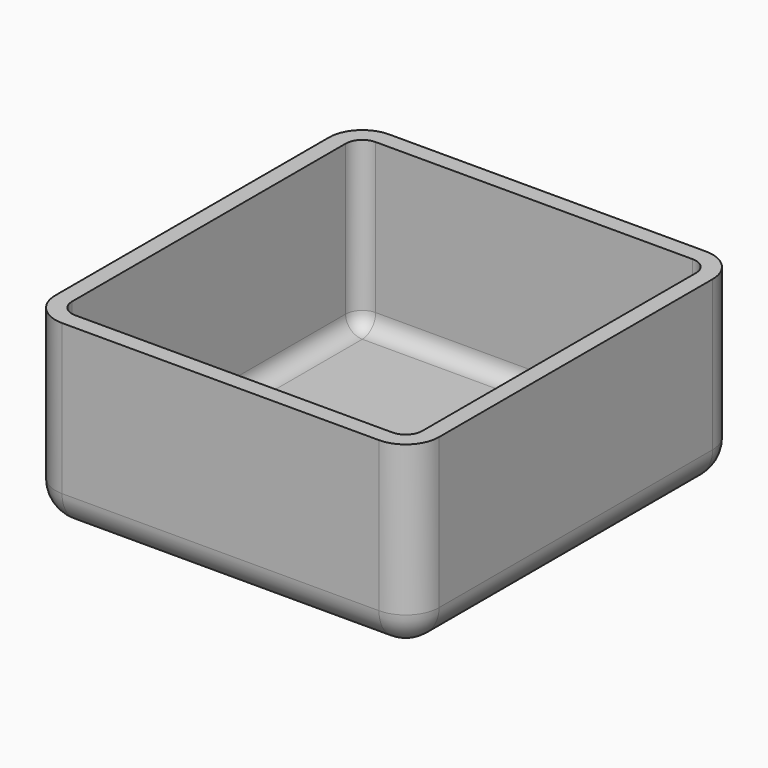
from build123d import *

# Parameters (mm, degrees)
F1_DEPTH = 2
F2_W     = 46
F2_H     = 49
F3_DEPTH = 22
F4_W     = 42
F4_H     = 45
F5_DEPTH = 20
F6_R     = 4
F7_R     = 2
F8_R     = 2
F9_R     = 4


with BuildPart() as f1:
    # F0 (on Top) → F1 (new body)
    with BuildSketch(Plane.XY):
        with BuildLine():
            Line((7, 10), (-7, 10))
            ThreePointArc((-7, 10), (-9.1213203436, 9.1213203436), (-10, 7))
            Line((-10, 7), (-10, -7))
            ThreePointArc((-10, -7), (-9.1213203436, -9.1213203436), (-7, -10))
            Line((-7, -10), (7, -10))
            ThreePointArc((7, -10), (9.1213203436, -9.1213203436), (10, -7))
            Line((10, -7), (10, 7))
            ThreePointArc((10, 7), (9.1213203436, 9.1213203436), (7, 10))
        make_face()
    extrude(amount=F1_DEPTH)

    # F2 (on face) → F3 (join)
    with BuildSketch(Plane.XY.offset(2)):
        Rectangle(F2_W, F2_H)
        with BuildLine():
            Line((-7, 10), (7, 10))
            ThreePointArc((7, 10), (9.1213203436, 9.1213203436), (10, 7))
            Line((10, 7), (10, -7))
            ThreePointArc((10, -7), (9.1213203436, -9.1213203436), (7, -10))
            Line((7, -10), (-7, -10))
            ThreePointArc((-7, -10), (-9.1213203436, -9.1213203436), (-10, -7))
            Line((-10, -7), (-10, 7))
            ThreePointArc((-10, 7), (-9.1213203436, 9.1213203436), (-7, 10))
        make_face(mode=Mode.SUBTRACT)
        with BuildLine():
            ThreePointArc((10, 7), (9.1213203436, 9.1213203436), (7, 10))
            Line((7, 10), (-7, 10))
            ThreePointArc((-7, 10), (-9.1213203436, 9.1213203436), (-10, 7))
            Line((-10, 7), (-10, -7))
            ThreePointArc((-10, -7), (-9.1213203436, -9.1213203436), (-7, -10))
            Line((-7, -10), (7, -10))
            ThreePointArc((7, -10), (9.1213203436, -9.1213203436), (10, -7))
            Line((10, -7), (10, 7))
        make_face()
    extrude(amount=F3_DEPTH)

    # F4 (on face) → F5 (cut)
    with BuildSketch(Plane.XY.offset(24)):
        Rectangle(F4_W, F4_H)
    extrude(amount=-F5_DEPTH, mode=Mode.SUBTRACT)

    # F6
    f6_edges = [f1.edges().sort_by_distance(p)[0] for p in [
        (-23, 24.5, 13),
        (23, 24.5, 13),
        (23, -24.5, 13),
        (-23, -24.5, 13),
    ]]
    fillet(f6_edges, radius=F6_R)

    # F7
    f7_edges = [f1.edges().sort_by_distance(p)[0] for p in [
        (21, 22.5, 14),
        (21, -22.5, 14),
        (-21, -22.5, 14),
        (-21, 22.5, 14),
    ]]
    fillet(f7_edges, radius=F7_R)

    # F8
    f8_edges = [f1.edges().sort_by_distance(p)[0] for p in [
        (0, 22.5, 4),
        (20.414214, 21.914214, 4),
        (-20.414214, 21.914214, 4),
        (21, 0, 4),
        (-21, 0, 4),
        (20.414214, -21.914214, 4),
        (-20.414214, -21.914214, 4),
        (0, -22.5, 4),
    ]]
    fillet(f8_edges, radius=F8_R)

    # F9
    f9_edges = [f1.edges().sort_by_distance(p)[0] for p in [
        (0, 24.5, 2),
        (-21.828427, 23.328427, 2),
        (-23, 0, 2),
        (-21.828427, -23.328427, 2),
        (0, -24.5, 2),
        (21.828427, -23.328427, 2),
        (23, 0, 2),
        (21.828427, 23.328427, 2),
    ]]
    fillet(f9_edges, radius=F9_R)


solid = f1.part
